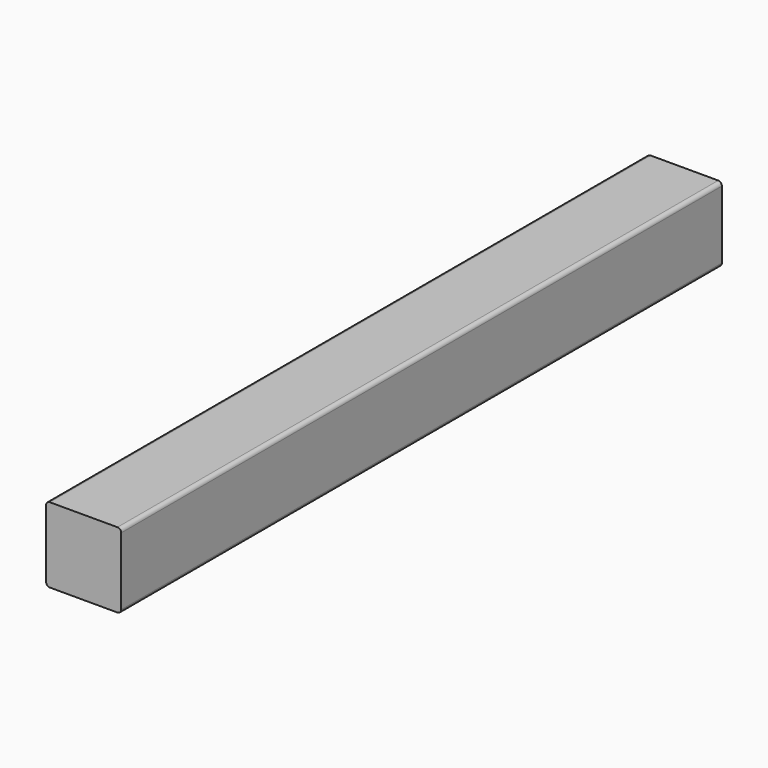
from build123d import *

# Parameters (mm, degrees)
F0_W     = 100
F0_H     = 100
F1_DEPTH = 500
F2_R     = 5


with BuildPart() as f1:
    # F0 (on Front) → F1 (new body, symmetric)
    with BuildSketch(Plane.XZ):
        with Locations((-711.711883, -1.488363)):
            Rectangle(F0_W, F0_H)
    extrude(amount=F1_DEPTH, both=True)

    # F2
    f2_edges = [f1.edges().sort_by_distance(p)[0] for p in [
        (-761.711883, 0, -51.488363),
        (-661.711883, 0, -51.488363),
        (-661.711883, 0, 48.511637),
        (-761.711883, 0, 48.511637),
    ]]
    fillet(f2_edges, radius=F2_R)


solid = f1.part
